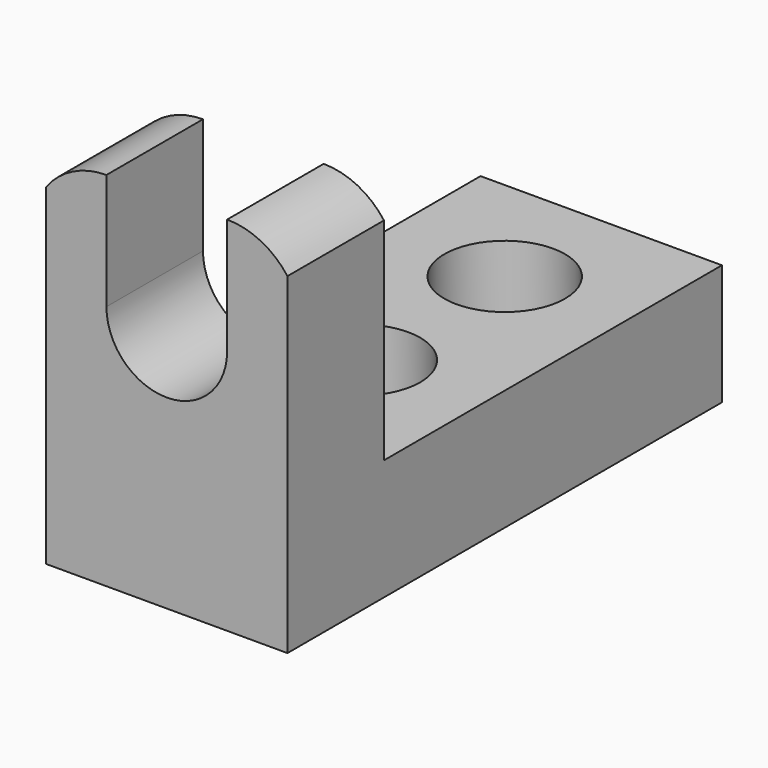
from build123d import *

# Parameters (mm, degrees)
F1_DEPTH = 25.4
F3_DEPTH = 25.4
F5_DEPTH = 25.4
F7_DEPTH = 25.4
F8_R     = 6.35
F9_DEPTH = 25.4


with BuildPart() as f1:
    # F0 (on Right) → F1 (new body)
    with BuildSketch(Plane.YZ):
        Polygon((0, 38.1), (0, 0), (57.15, 0), (57.15, 12.7), (12.7, 12.7), (12.7, 38.1), align=None)
    extrude(amount=F1_DEPTH)

    # F2 (on face) → F3 (cut)
    with BuildSketch(Plane(origin=(0, 12.7, 0), x_dir=(-1, 0, 0), z_dir=(0, 1, 0))):
        with BuildLine():
            ThreePointArc((-19.05, 25.8947107941), (-12.7, 19.5447107941), (-6.35, 25.8947107941))
            ThreePointArc((-6.35, 25.8947107941), (-12.7, 32.2447107941), (-19.05, 25.8947107941))
        make_face()
        with BuildLine():
            ThreePointArc((-19.05, 25.8947107941), (-12.7, 32.2447107941), (-6.35, 25.8947107941))
            Line((-6.35, 25.8947107941), (-6.35, 38.1))
            Line((-6.35, 38.1), (-19.05, 38.1))
            Line((-19.05, 38.1), (-19.05, 25.8947107941))
        make_face()
    extrude(amount=-F3_DEPTH, mode=Mode.SUBTRACT)

    # F4 (on face) → F5 (cut)
    with BuildSketch(Plane(origin=(0, 12.7, 0), x_dir=(-1, 0, 0), z_dir=(0, 1, 0))):
        with BuildLine():
            ThreePointArc((-25.4, 34.925), (-22.5997579143, 37.2620158286), (-19.05, 38.1))
            Line((-19.05, 38.1), (-25.4, 38.1))
            Line((-25.4, 38.1), (-25.4, 34.925))
        make_face()
    extrude(amount=-F5_DEPTH, mode=Mode.SUBTRACT)

    # F6 (on face) → F7 (cut)
    with BuildSketch(Plane(origin=(0, 12.7, 0), x_dir=(-1, 0, 0), z_dir=(0, 1, 0))):
        with BuildLine():
            ThreePointArc((-6.35, 38.1), (-2.8002420857, 37.2620158286), (0, 34.925))
            Line((0, 34.925), (0, 38.1))
            Line((0, 38.1), (-6.35, 38.1))
        make_face()
    extrude(amount=-F7_DEPTH, mode=Mode.SUBTRACT)

    # F8 (on face) → F9 (cut)
    with BuildSketch(Plane.XY.offset(12.7)):
        with Locations((12.7, 44.45)):
            Circle(F8_R)
        with Locations((12.7, 25.4)):
            Circle(F8_R)
    extrude(amount=-F9_DEPTH, mode=Mode.SUBTRACT)


solid = f1.part
